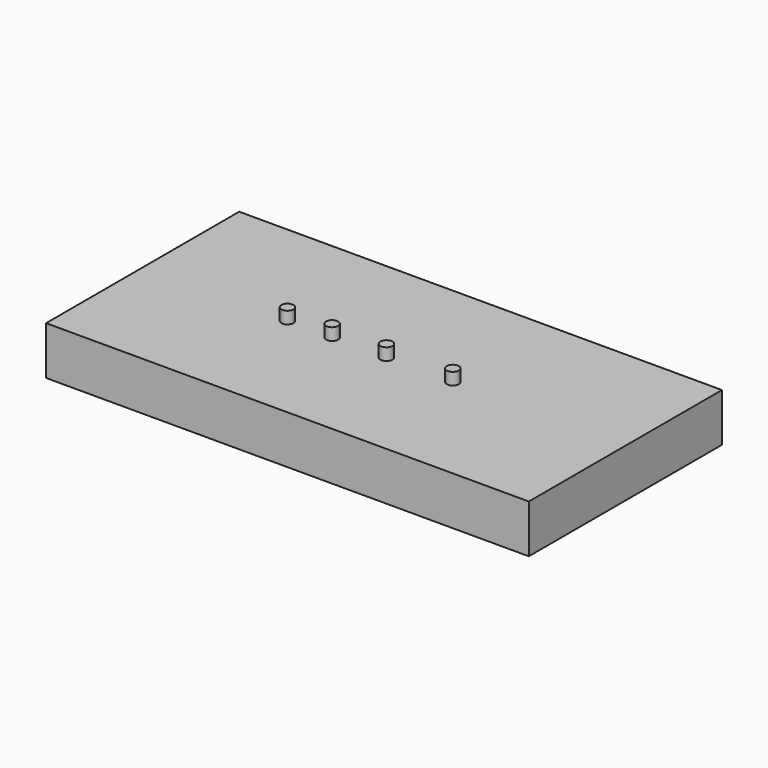
from build123d import *

# Parameters (mm, degrees)
F0_W     = 200
F0_H     = 100
F1_DEPTH = 20
F2_R     = 2.5
F3_DEPTH = 5


with BuildPart() as f1:
    # F0 (on Top) → F1 (new body)
    with BuildSketch(Plane.XY):
        Rectangle(F0_W, F0_H)
    extrude(amount=F1_DEPTH)

    # F2 (on face) → F3 (join)
    with BuildSketch(Plane.XY.offset(20)):
        with Locations((-40, 0)):
            Circle(F2_R)
        with Locations((-21.5, 0)):
            Circle(F2_R)
        with Locations((1, 0)):
            Circle(F2_R)
        with Locations((28.5, 0)):
            Circle(F2_R)
    extrude(amount=F3_DEPTH)


solid = f1.part
